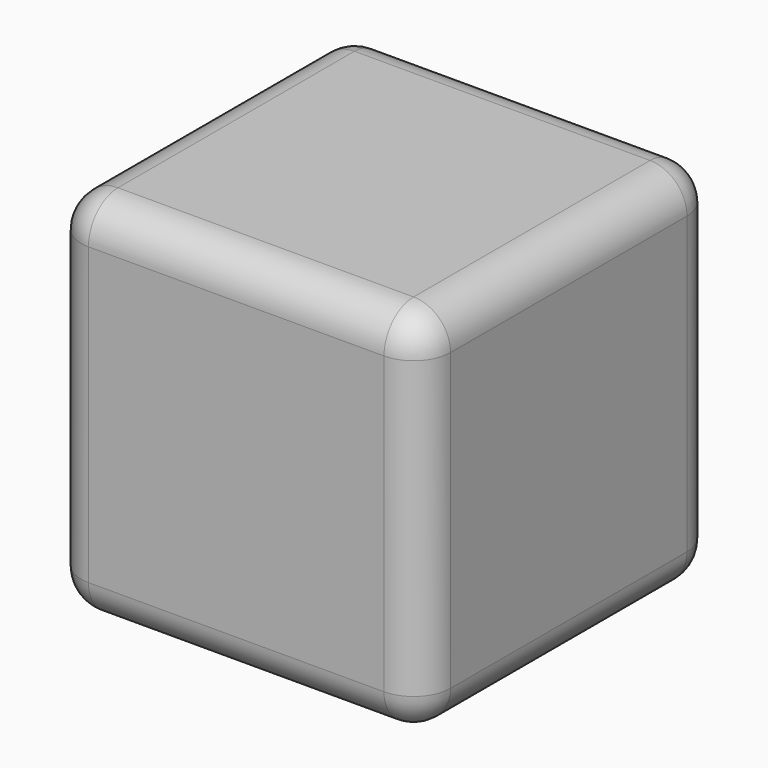
from build123d import *

# Parameters (mm, degrees)
F0_W          = 100
F0_H          = 100
F1_DEPTH      = 50
F1_DEPTH_BACK = 50
F2_R          = 10


with BuildPart() as f1:
    # F0 (on Top) → F1 (new body, two sides)
    with BuildSketch(Plane.XY) as f1_sk:
        Rectangle(F0_W, F0_H)
    extrude(amount=F1_DEPTH)
    extrude(f1_sk.sketch, amount=-F1_DEPTH_BACK)

    # F2
    f2_edges = [f1.edges().sort_by_distance(p)[0] for p in [
        (50, 0, 50),
        (0, 50, 50),
        (-50, 0, 50),
        (0, -50, 50),
        (-50, -50, 0),
        (50, -50, 0),
        (0, -50, -50),
        (50, 50, 0),
        (50, 0, -50),
        (-50, 50, 0),
        (0, 50, -50),
        (-50, 0, -50),
    ]]
    fillet(f2_edges, radius=F2_R)


solid = f1.part
